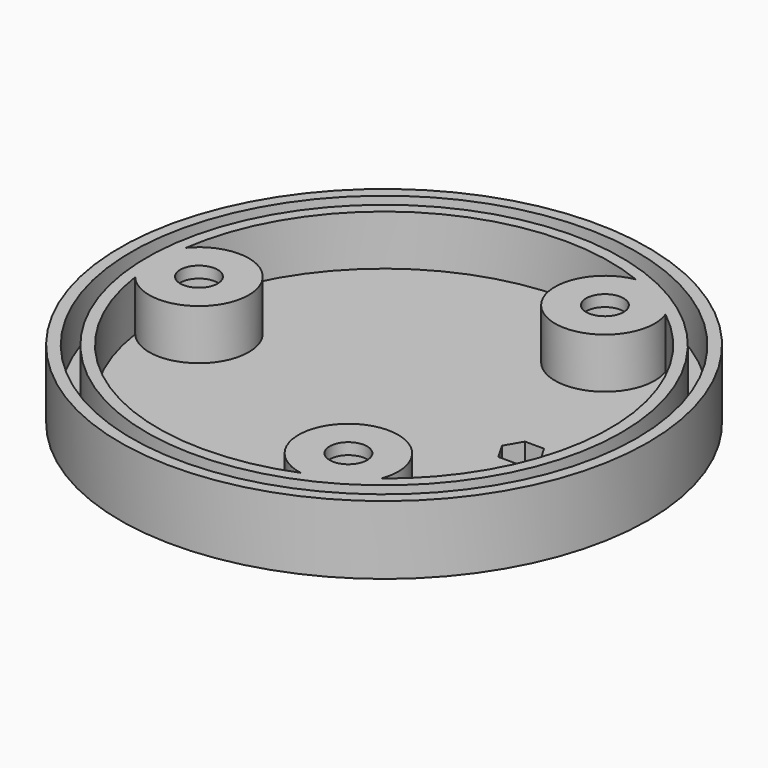
from build123d import *

# Parameters (mm, degrees)
EXTRUDE002_DEPTH  = 4
TUBE029_R         = 57.75
TUBE029_R_2       = 55.25
TUBE029_DEPTH     = 15
TUBE027_R         = 51.9
TUBE027_R_2       = 49.4
TUBE027_DEPTH     = 15
TUBE030_R         = 10.9
TUBE030_R_2       = 8.9
TUBE030_DEPTH     = 11
TUBE031_R         = 8.9
TUBE031_R_2       = 4.1
TUBE031_DEPTH     = 2.5
ARRAY034_COUNT    = 3
CYLINDER030_R     = 8.9
CYLINDER030_DEPTH = 4
ARRAY033_COUNT    = 3
CYLINDER029_R     = 49.4
CYLINDER029_DEPTH = 4
TUBE028_R         = 55.25
TUBE028_R_2       = 51.75
TUBE028_DEPTH     = 5


with BuildPart() as valvecutter:
    # Face002 → Extrude002 (new body)
    with BuildSketch(Plane(origin=(0, 0, 0), x_dir=(0, 1, 0), z_dir=(0, 0, 1))):
        Polygon((0, -4.2), (3.637307, -2.1), (3.637307, 2.1), (0, 4.2), (-3.637307, 2.1), (-3.637307, -2.1), align=None)
    extrude(amount=EXTRUDE002_DEPTH)


with BuildPart() as valvecutter_1:
    # Extrude002 placement: moved
    add(valvecutter.part.moved(Location((30, 0, -5))))


with BuildPart() as lidconnectorouter:
    # Tube029 → Tube029 (new body)
    with BuildSketch(Plane.XY.offset(-5)):
        Circle(TUBE029_R)
        Circle(TUBE029_R_2, mode=Mode.SUBTRACT)
    extrude(amount=TUBE029_DEPTH)


with BuildPart() as lidconnectorinner:
    # Tube027 → Tube027 (new body)
    with BuildSketch(Plane.XY.offset(-5)):
        Circle(TUBE027_R)
        Circle(TUBE027_R_2, mode=Mode.SUBTRACT)
    extrude(amount=TUBE027_DEPTH)


with BuildPart() as lidrailguide:
    # Tube030 → Tube030 (new body)
    with BuildSketch(Plane(origin=(-40.5, 0, -1), x_dir=(1, 0, 0), z_dir=(0, 0, 1))):
        Circle(TUBE030_R)
        Circle(TUBE030_R_2, mode=Mode.SUBTRACT)
    extrude(amount=TUBE030_DEPTH)


with BuildPart() as lidrailguides:
    # Tube031 → Tube031 (new body)
    with BuildSketch(Plane(origin=(-40.5, 0, 7.5), x_dir=(1, 0, 0), z_dir=(0, 0, 1))):
        Circle(TUBE031_R)
        Circle(TUBE031_R_2, mode=Mode.SUBTRACT)
    extrude(amount=TUBE031_DEPTH)

    # Fusion016: union LidRailGuide
    add(lidrailguide.part)

    # Array034: LidRailGuides ×3 about axis
    array034_axis = Axis((0, 0, 0), (0, 0, 1))


with BuildPart() as lidrailguides_1:
    add(lidrailguides.part)
    for i in range(1, ARRAY034_COUNT):
        add(lidrailguides.part.rotate(array034_axis, i * 360 / ARRAY034_COUNT))


with BuildPart() as lidnutcutters:
    # Cylinder030 → Cylinder030 (new body)
    with BuildSketch(Plane(origin=(-40.5, 0, -5), x_dir=(1, 0, 0), z_dir=(0, 0, 1))):
        Circle(CYLINDER030_R)
    extrude(amount=CYLINDER030_DEPTH)

    # Array033: LidNutCutters ×3 about axis
    array033_axis = Axis((0, 0, 0), (0, 0, 1))


with BuildPart() as lidnutcutters_1:
    add(lidnutcutters.part)
    for i in range(1, ARRAY033_COUNT):
        add(lidnutcutters.part.rotate(array033_axis, i * 360 / ARRAY033_COUNT))


with BuildPart() as lid1:
    # Cylinder029 → Cylinder029 (new body)
    with BuildSketch(Plane.XY.offset(-5)):
        Circle(CYLINDER029_R)
    extrude(amount=CYLINDER029_DEPTH)

    # Cut056: cut LidNutCutters
    add(lidnutcutters_1.part, mode=Mode.SUBTRACT)


with BuildPart() as lid3:
    # Tube028 → Tube028 (new body)
    with BuildSketch(Plane.XY.offset(-5)):
        Circle(TUBE028_R)
        Circle(TUBE028_R_2, mode=Mode.SUBTRACT)
    extrude(amount=TUBE028_DEPTH)

    # Fusion017: union LidConnectorOuter, LidConnectorInner, LidRailGuides, Lid1
    add(lidconnectorouter.part)
    add(lidconnectorinner.part)
    add(lidrailguides_1.part)
    add(lid1.part)

    # Cut057: cut ValveCutter
    add(valvecutter_1.part, mode=Mode.SUBTRACT)


solid = lid3.part
